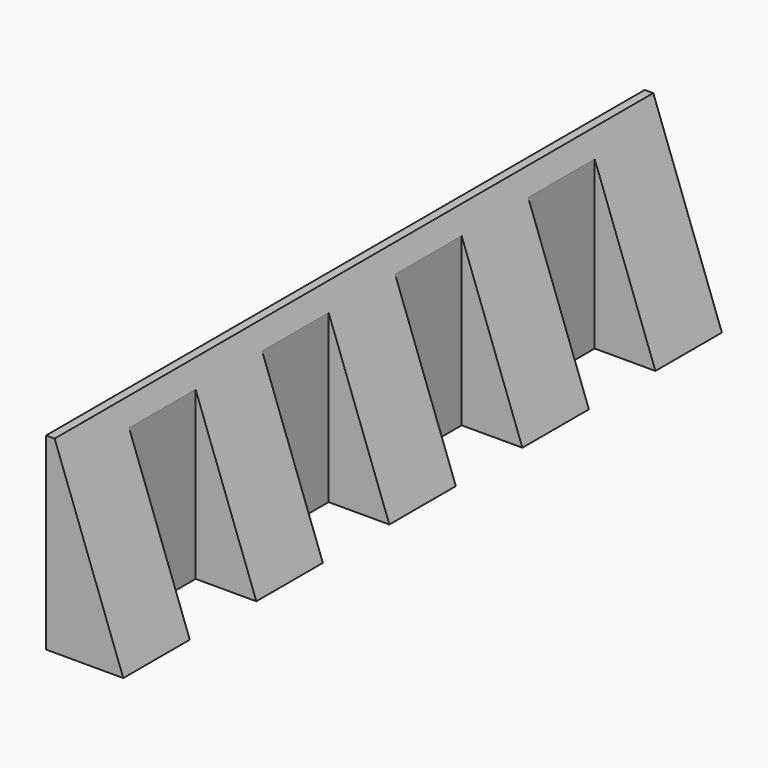
from build123d import *

# Parameters (mm, degrees)
PAD018_DEPTH    = 158.75
SKETCH026_W     = 12.88
SKETCH026_H     = 17.638889
POCKET007_DEPTH = 45
SKETCH027_W     = 5
SKETCH027_H     = 5
POCKET008_DEPTH = 200


with BuildPart() as part:
    # Sketch025 → Pad018 (new body)
    with BuildSketch(Plane.XZ):
        Polygon((0, 0), (0, 45), (16.38, 0), align=None)
    extrude(amount=PAD018_DEPTH)

    # Sketch026 (on Face3 of Pad018) → Pocket007 (cut)
    with BuildSketch(Plane(origin=(0, 0, 0), x_dir=(1, 0, 0), z_dir=(0, 0, -1))):
        with Locations((9.94, 26.458333)):
            Rectangle(SKETCH026_W, SKETCH026_H)
        with Locations((9.94, 132.291666)):
            Rectangle(SKETCH026_W, SKETCH026_H)
        with Locations((9.94, 97.013888)):
            Rectangle(SKETCH026_W, SKETCH026_H)
        with Locations((9.94, 61.736111)):
            Rectangle(SKETCH026_W, SKETCH026_H)
    extrude(amount=-POCKET007_DEPTH, mode=Mode.SUBTRACT)

    # Sketch027 (on Face5 of Pocket007) → Pocket008 (cut)
    with BuildSketch(Plane.XZ.offset(158.75)):
        with Locations((2.5, 42.5)):
            Rectangle(SKETCH027_W, SKETCH027_H)
    extrude(amount=-POCKET008_DEPTH, mode=Mode.SUBTRACT)


solid = part.part
